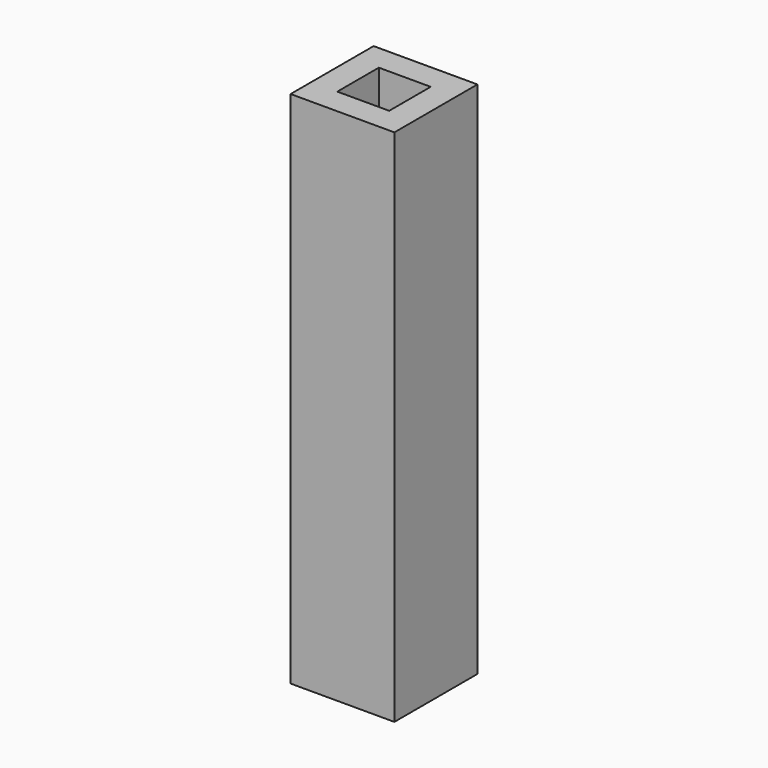
from build123d import *

# Parameters (mm, degrees)
SKETCH_W     = 4
SKETCH_H     = 4
PAD_DEPTH    = 20
SKETCH001_W  = 2
SKETCH001_H  = 2
POCKET_DEPTH = 20


with BuildPart() as part:
    # Sketch → Pad (new body)
    with BuildSketch(Plane.XY):
        with Locations((2, 2)):
            Rectangle(SKETCH_W, SKETCH_H)
    extrude(amount=PAD_DEPTH)

    # Sketch001 (on DatumPlane) → Pocket (cut)
    with BuildSketch(Plane(origin=(0, 0, 0), x_dir=(1, 0, 0), z_dir=(0, 0, -1))):
        with Locations((2, -2)):
            Rectangle(SKETCH001_W, SKETCH001_H)
    extrude(amount=-POCKET_DEPTH, mode=Mode.SUBTRACT)


solid = part.part
